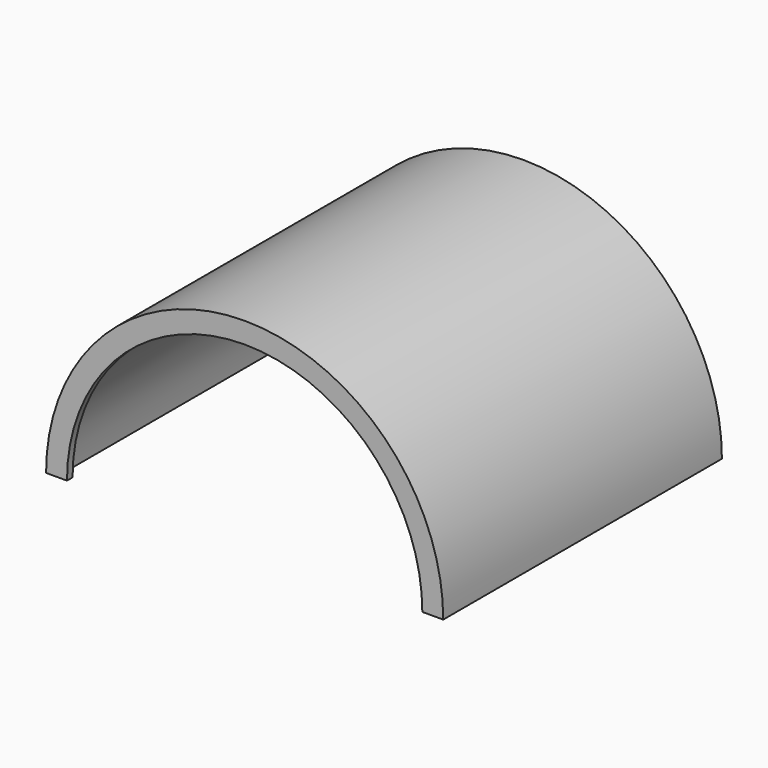
from build123d import *

# Parameters (mm, degrees)
PAD_DEPTH    = 50
PAD001_DEPTH = 1


with BuildPart() as part:
    # Sketch → Pad (new body)
    with BuildSketch(Plane.XZ):
        with BuildLine():
            ThreePointArc((28.5, 0), (0, 28.5), (-28.5, 0))
            Line((-28.5, 0), (-27, 0))
            ThreePointArc((27, 0), (0, 27), (-27, 0))
            Line((27, 0), (28.5, 0))
        make_face()
    extrude(amount=-PAD_DEPTH)

    # Sketch001 → Pad001 (join)
    with BuildSketch(Plane.XZ):
        with BuildLine():
            ThreePointArc((28.5, 0), (0, 28.5), (-28.5, 0))
            Line((-28.5, 0), (-25.5, 0))
            ThreePointArc((25.5, 0), (0, 25.5), (-25.5, 0))
            Line((25.5, 0), (28.5, 0))
        make_face()
    extrude(amount=-PAD001_DEPTH)


solid = part.part
